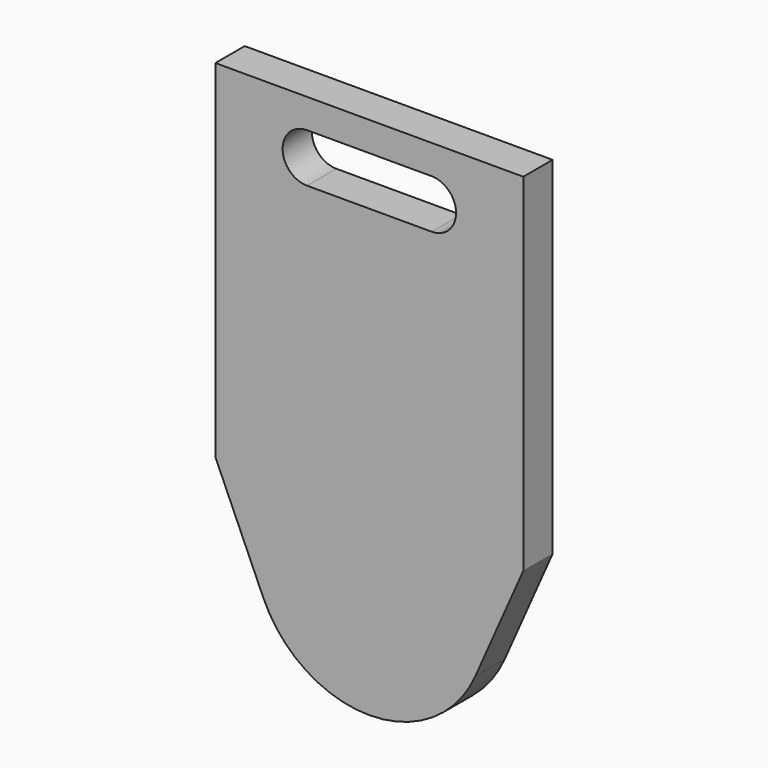
from build123d import *

# Parameters (mm, degrees)
F1_DEPTH = 3
F3_DEPTH = 25


with BuildPart() as f1:
    # F0 (on Front) → F1 (new body)
    with BuildSketch(Plane.XZ):
        with BuildLine():
            Line((-12.6, 33.4), (-12.6, 5))
            Line((-12.6, 5), (-8.687841, -3.84336))
            ThreePointArc((-8.687841, -3.84336), (0, -9.5), (8.687841, -3.84336))
            Line((8.687841, -3.84336), (12.6, 5))
            Line((12.6, 5), (12.6, 33.4))
            Line((12.6, 33.4), (-12.6, 33.4))
        make_face()
    extrude(amount=F1_DEPTH)

    # F2 (on face) → F3 (cut)
    with BuildSketch(Plane.XZ.offset(3)):
        with BuildLine():
            Line((0, 31), (-5.1, 31))
            ThreePointArc((-5.1, 31), (-7.1, 29), (-5.1, 27))
            Line((-5.1, 27), (0, 27))
            Line((0, 27), (5.1, 27))
            ThreePointArc((5.1, 27), (7.1, 29), (5.1, 31))
            Line((5.1, 31), (0, 31))
        make_face()
    extrude(amount=-F3_DEPTH, mode=Mode.SUBTRACT)


solid = f1.part
